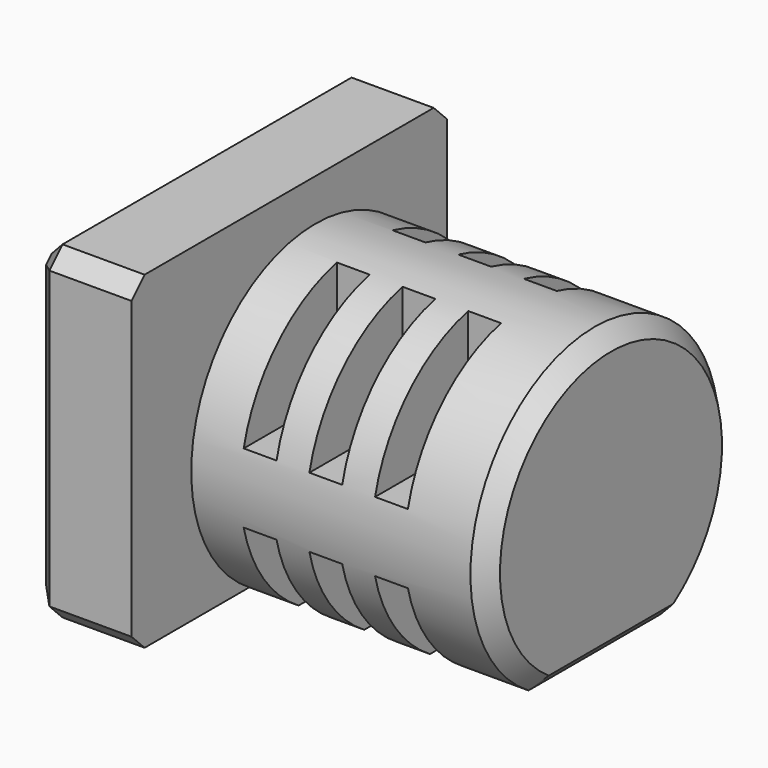
from build123d import *

# Parameters (mm, degrees)
PAD002_DEPTH            = 18
CHAMFER001_SIZE         = 1
SKETCH004_W             = 20
SKETCH004_H             = 20
POCKET001_DEPTH         = 2
LINEARPATTERN001_COUNT  = 3
LINEARPATTERN001_PITCH  = 4
PAD003_DEPTH            = 6
CHAMFER002_SIZE         = 1
BODY001_PLACEMENT_ANGLE = 90


with BuildPart() as part:
    # Sketch003 → Pad002 (new body)
    with BuildSketch(Plane.XY):
        with BuildLine():
            ThreePointArc((8, 5.030159), (-9.45, 0), (8, -5.030159))
            Line((8, 5.030159), (8, -5.030159))
        make_face()
    extrude(amount=PAD002_DEPTH)

    # Chamfer001
    chamfer001_edges = [part.edges().sort_by_distance(p)[0] for p in [
        (-9.45, 0, 18),
        (8, 0, 18),
    ]]
    chamfer(chamfer001_edges, length=CHAMFER001_SIZE)

    # Sketch004 → Pocket001 (cut)
    with BuildSketch(Plane.XY.offset(3)):
        with Locations((12.12132, -12.12132)):
            Rectangle(SKETCH004_W, SKETCH004_H)
        with Locations((12.12132, 12.12132)):
            Rectangle(SKETCH004_W, SKETCH004_H)
        with Locations((-12.12132, 12.12132)):
            Rectangle(SKETCH004_W, SKETCH004_H)
        with Locations((-12.12132, -12.12132)):
            Rectangle(SKETCH004_W, SKETCH004_H)
    pocket001 = extrude(amount=POCKET001_DEPTH, mode=Mode.SUBTRACT)

    # LinearPattern001: Pocket001 ×3
    with Locations(*[(0, 0, i * LINEARPATTERN001_PITCH) for i in range(1, LINEARPATTERN001_COUNT)]):
        add(pocket001, mode=Mode.SUBTRACT)

    # Sketch005 → Pad003 (join)
    with BuildSketch(Plane.XY):
        Polygon((-12, 9), (-12, -13), (-11, -14), (7, -14), (8, -13), (8, 9), (7, 10), (-11, 10), align=None)
    extrude(amount=-PAD003_DEPTH)

    # Chamfer002
    chamfer002_edges = [part.edges().sort_by_distance(p)[0] for p in [
        (-2, 10, -6),
        (-11.5, 9.5, -6),
        (-12, -2, -6),
        (-11.5, -13.5, -6),
        (-2, -14, -6),
        (7.5, -13.5, -6),
        (8, -2, -6),
        (7.5, 9.5, -6),
    ]]
    chamfer(chamfer002_edges, length=CHAMFER002_SIZE)


with BuildPart() as part_1:
    # Body001 placement: moved
    add(part.part.rotate(Axis((0, 0, 0), (0, 1, 0)), BODY001_PLACEMENT_ANGLE))


solid = part_1.part
